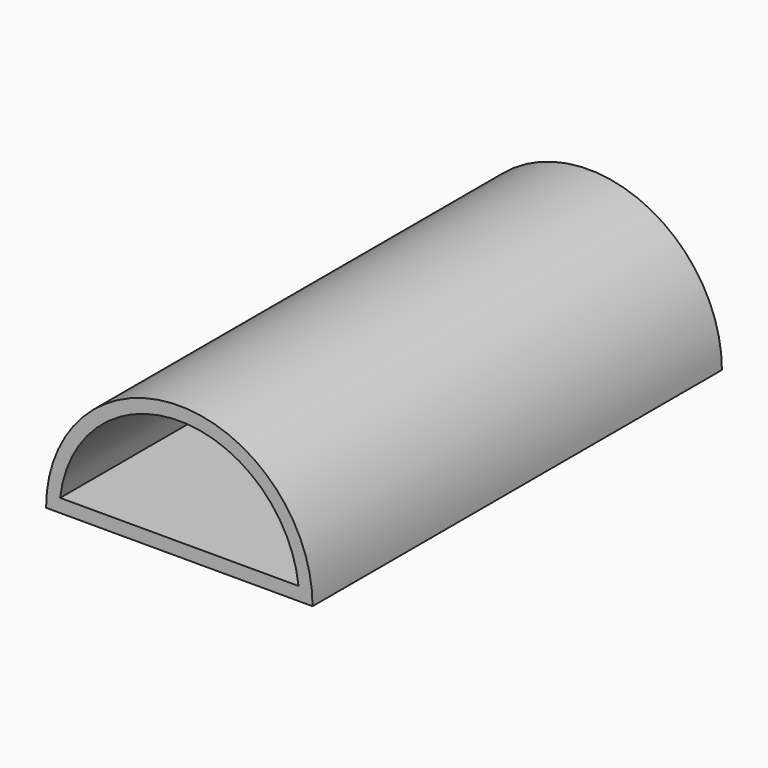
from build123d import *

# Parameters (mm, degrees)
F1_DEPTH = 90
F2_T     = -2.5
F3_DEPTH = 6
F5_DEPTH = 50


with BuildPart() as f1:
    # F0 (on Front) → F1 (new body)
    with BuildSketch(Plane.XZ):
        with BuildLine():
            Line((-25, 0), (25, 0))
            ThreePointArc((25, 0), (0, 25), (-25, 0))
        make_face()
    extrude(amount=F1_DEPTH)

    # F2
    f2_openings = [f1.faces().sort_by_distance(p)[0] for p in [
        (0, -90, 10.61033),
    ]]
    offset(amount=F2_T, openings=f2_openings)

    # F1_face (on face) → F3 (join)
    with BuildSketch(Plane(origin=(0, 0, 10.61033), x_dir=(1, 0, 0), z_dir=(0, 1, 0))):
        with BuildLine():
            Line((25, 10.61033), (-25, 10.61033))
            ThreePointArc((-25, 10.61033), (0, -14.38967), (25, 10.61033))
        make_face()
    extrude(amount=F3_DEPTH)

    # F4 (on Right) → F5 (cut, symmetric)
    with BuildSketch(Plane.YZ):
        Polygon((6, 47.765567), (6, 9.95), (8, 11.104701), (8, 47.765567), align=None)
        Polygon((8, -11.104701), (6, -9.95), (6, -25.27874), (8, -25.27874), align=None)
    extrude(amount=F5_DEPTH, both=True, mode=Mode.SUBTRACT)


solid = f1.part
